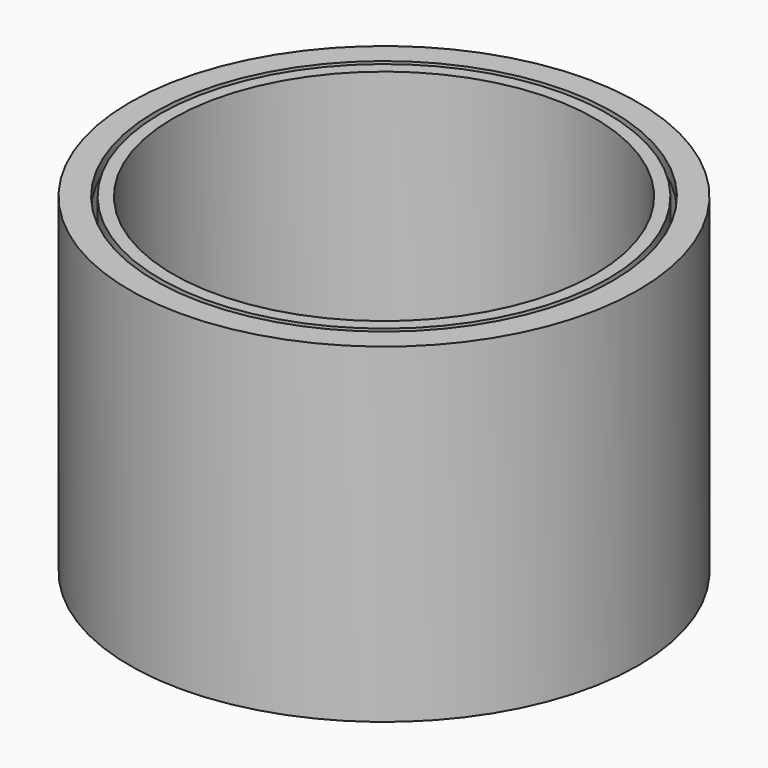
from build123d import *


with BuildPart() as f1:
    # F0 (on Front) → F1 (revolve)
    with BuildSketch(Plane.XZ):
        Polygon((-93, 7), (0, 7), (0, 13), (-83, 13), (-83, 130), (-88, 130), (-88, 123), (-88, 13), (-93, 13), align=None)
        Polygon((-100, 0), (0, 0), (0, 5), (-95, 5), (-95, 125), (-90, 125), (-90, 130), (-100, 130), align=None)
    revolve(axis=Axis((0, 0, 65), (0, 0, 1)))


solid = f1.part
